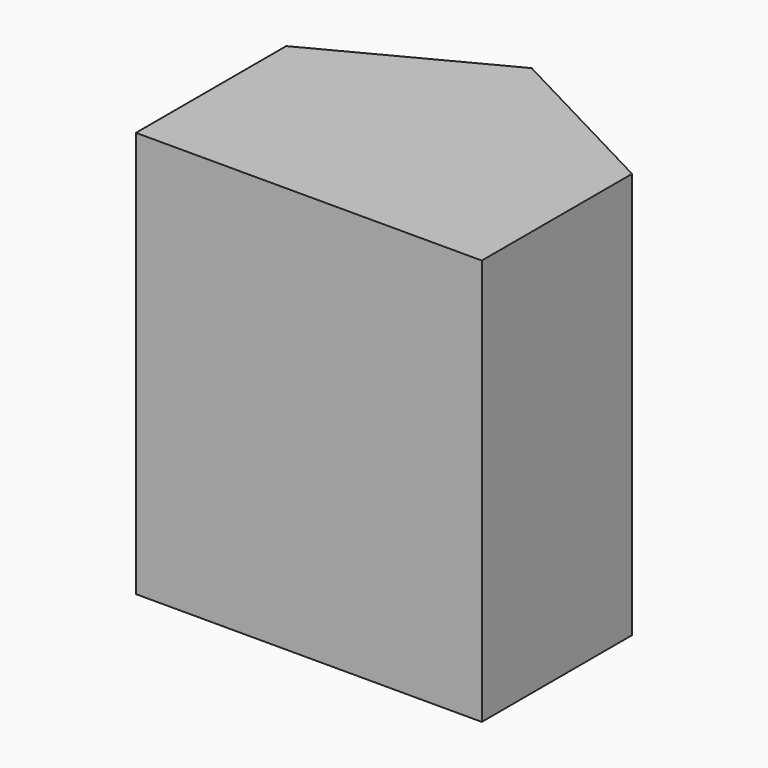
from build123d import *

# Parameters (mm, degrees)
F0_W     = 151.401668787
F0_H     = 82.2127312422
F1_DEPTH = 177.8


with BuildPart() as f1:
    # F0 (on Top) → F1 (new body)
    with BuildSketch(Plane.XY):
        Polygon((0, 74.6833533049), (-75.7008343935, 35.0014641881), (75.7008343935, 35.0014641881), align=None)
        with Locations((0, -6.104901433)):
            Rectangle(F0_W, F0_H)
    extrude(amount=F1_DEPTH)


solid = f1.part
